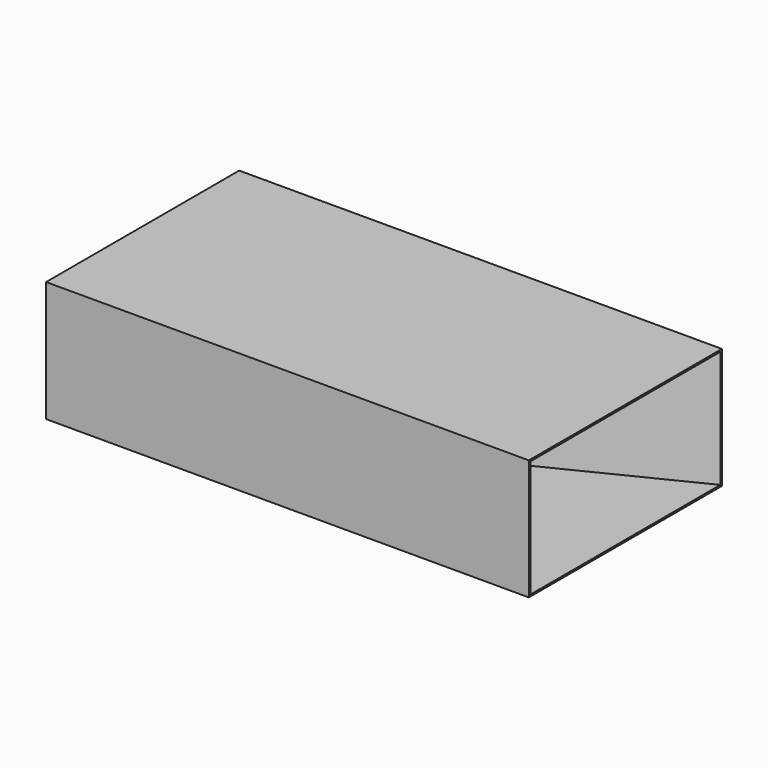
from build123d import *

# Parameters (mm, degrees)
F0_W     = 40
F0_H     = 20
F2_DEPTH = 80
F3_T     = -0.29
F5_DEPTH = 20


with BuildPart() as f2:
    # F0 (on Right) → F2 (new body)
    with BuildSketch(Plane.YZ):
        Rectangle(F0_W, F0_H)
    extrude(amount=F2_DEPTH)

    # F3
    f3_openings = [f2.faces().sort_by_distance(p)[0] for p in [
        (80, 0, 0),
    ]]
    offset(amount=F3_T, openings=f3_openings)

    # F4 (on face) → F5 (join)
    with BuildSketch(Plane(origin=(0, 0, -10), x_dir=(1, 0, 0), z_dir=(0, 0, -1))):
        Polygon((39.6736521938, 0), (40, -0.1618533906), (40.3263478062, 0), (40, 0.1618533906), align=None)
        Polygon((40, 0.1618533906), (40.3263478062, 0), (80, 19.6762932188), (80, 20), align=None)
        Polygon((0, -19.6762932188), (0, -20), (40, -0.1618533906), (39.6736521938, 0), align=None)
        Polygon((0, 19.6762932188), (39.6736521938, 0), (40, 0.1618533906), (0, 20), align=None)
        Polygon((40.3263478062, 0), (40, -0.1618533906), (80, -20), (80, -19.6762932188), align=None)
    extrude(amount=-F5_DEPTH)


solid = f2.part
